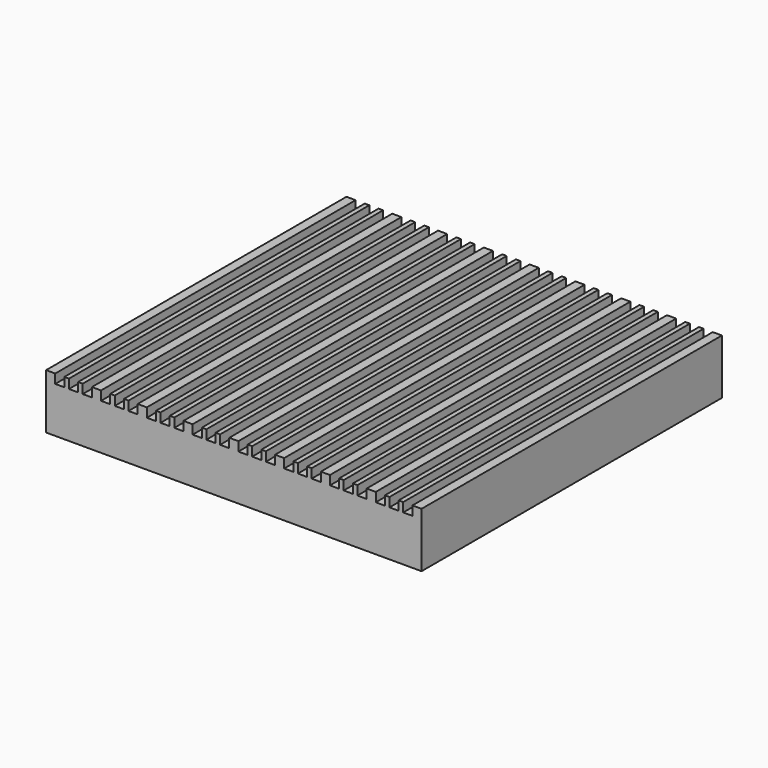
from build123d import *

# Parameters (mm, degrees)
F1_DEPTH = 41


with BuildPart() as f1:
    # F0 (on Front) → F1 (new body)
    with BuildSketch(Plane.XZ):
        Polygon((1, 6), (0, 6), (0, 0), (41, 0), (41, 6), (40, 6), (40, 5), (39, 5), (39, 6), (38.5, 6), (38.5, 5), (37.5, 5), (37.5, 6), (37, 6), (37, 5), (36, 5), (36, 6), (35, 6), (35, 5), (34, 5), (34, 6), (33.5, 6), (33.5, 5), (32.5, 5), (32.5, 6), (32, 6), (32, 5), (31, 5), (31, 6), (30, 6), (30, 5), (29, 5), (29, 6), (28.5, 6), (28.5, 5), (27.5, 5), (27.5, 6), (27, 6), (27, 5), (26, 5), (26, 6), (25, 6), (25, 5), (24, 5), (24, 6), (23.5, 6), (23.5, 5), (22.5, 5), (22.5, 6), (22, 6), (22, 5), (21, 5), (21, 6), (20, 6), (20, 5), (19, 5), (19, 6), (18.5, 6), (18.5, 5), (17.5, 5), (17.5, 6), (17, 6), (17, 5), (16, 5), (16, 6), (15, 6), (15, 5), (14, 5), (14, 6), (13.5, 6), (13.5, 5), (12.5, 5), (12.5, 6), (12, 6), (12, 5), (11, 5), (11, 6), (10, 6), (10, 5), (9, 5), (9, 6), (8.5, 6), (8.5, 5), (7.5, 5), (7.5, 6), (7, 6), (7, 5), (6, 5), (6, 6), (5, 6), (5, 5), (4, 5), (4, 6), (3.5, 6), (3.5, 5), (2.5, 5), (2.5, 6), (2, 6), (2, 5), (1, 5), align=None)
    extrude(amount=F1_DEPTH)


solid = f1.part
